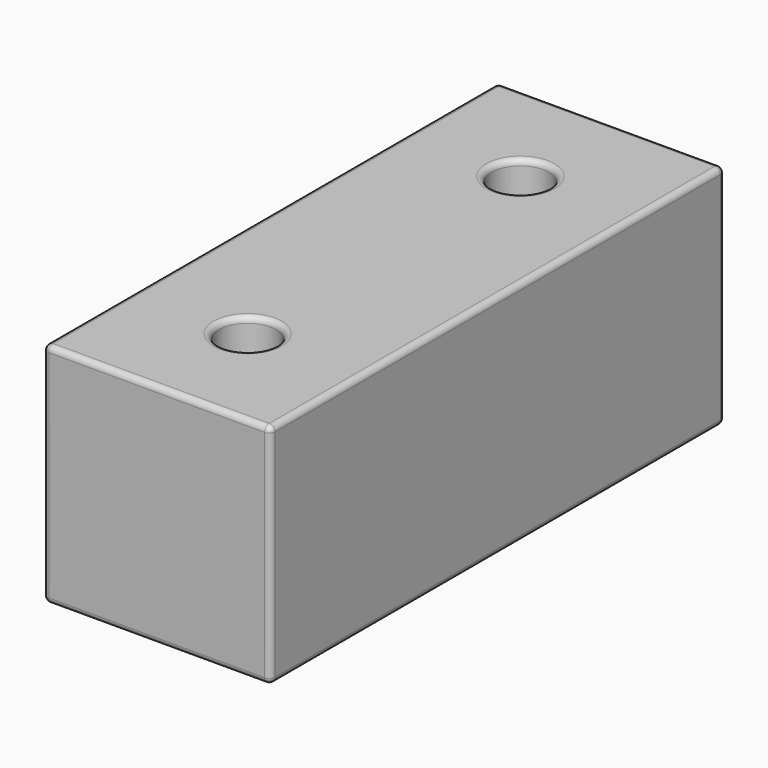
from build123d import *

# Parameters (mm, degrees)
F0_W     = 20
F0_H     = 50
F0_R     = 2.5
F1_DEPTH = 20
F2_R     = 0.5
F3_R     = 0.5
F4_R     = 0.5
F5_R     = 0.5


with BuildPart() as f1:
    # F0 (on Top) → F1 (new body)
    with BuildSketch(Plane.XY):
        with Locations((-34.2786995421, 5.5646058172)):
            Rectangle(F0_W, F0_H)
        with Locations((-34.2786995421, -9.4353941828)):
            Circle(F0_R, mode=Mode.SUBTRACT)
        with Locations((-34.2786995421, 20.5646058172)):
            Circle(F0_R, mode=Mode.SUBTRACT)
    extrude(amount=F1_DEPTH)

    # F2
    f2_edges = [f1.edges().sort_by_distance(p)[0] for p in [
        (-36.7787, 20.564606, 20),
    ]]
    fillet(f2_edges, radius=F2_R)

    # F3
    f3_edges = [f1.edges().sort_by_distance(p)[0] for p in [
        (-31.7787, -9.435394, 10),
        (-36.7787, -9.435394, 0),
        (-36.7787, -9.435394, 20),
    ]]
    fillet(f3_edges, radius=F3_R)

    # F4
    f4_edges = [f1.edges().sort_by_distance(p)[0] for p in [
        (-36.7787, 20.564606, 0),
    ]]
    fillet(f4_edges, radius=F4_R)

    # F5
    f5_edges = [f1.edges().sort_by_distance(p)[0] for p in [
        (-44.2787, -19.435394, 10),
        (-37.2787, 20.564606, 0),
        (-37.2787, -9.435394, 0),
        (-34.2787, 30.564606, 0),
        (-44.2787, 5.564606, 0),
        (-34.2787, -19.435394, 0),
        (-24.2787, 5.564606, 0),
        (-24.2787, 30.564606, 10),
        (-44.2787, 30.564606, 10),
        (-34.2787, 30.564606, 20),
        (-44.2787, 5.564606, 20),
        (-37.2787, -9.435394, 20),
        (-37.2787, 20.564606, 20),
        (-34.2787, -19.435394, 20),
        (-24.2787, 5.564606, 20),
        (-24.2787, -19.435394, 10),
        (-36.7787, -9.435394, 19.5),
        (-36.7787, 20.564606, 19.5),
        (-36.7787, -9.435394, 0.5),
        (-36.7787, 20.564606, 0.5),
    ]]
    fillet(f5_edges, radius=F5_R)


solid = f1.part
